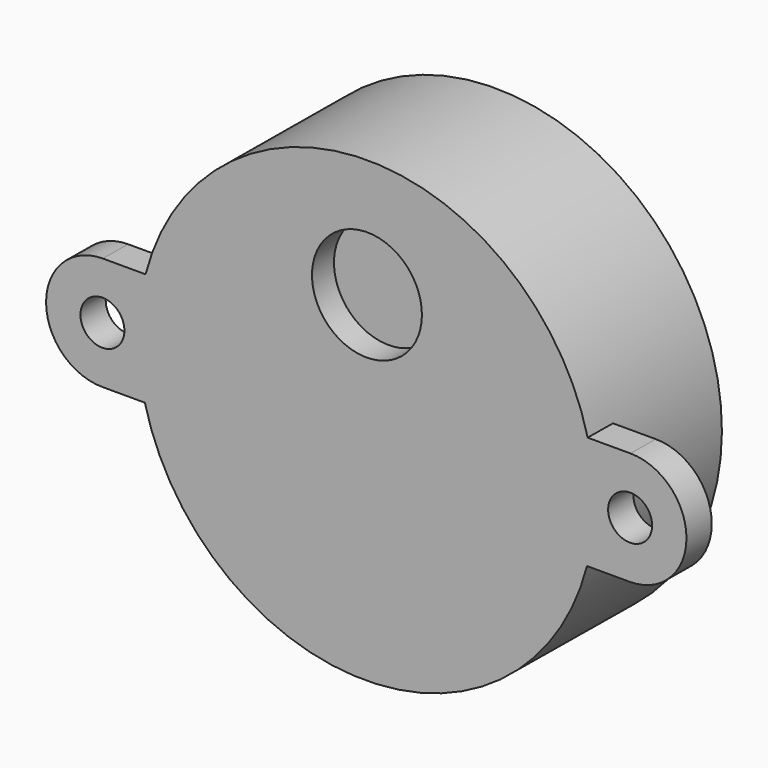
from build123d import *

# Parameters (mm, degrees)
SKETCH002_R        = 16.6
PAD001_DEPTH       = 14.2
SKETCH003_R        = 16.6
SKETCH003_R_2      = 13.25
POCKET001_DEPTH    = 2.6
SKETCH009_R        = 4
POCKET004_DEPTH    = 2
SKETCH005_R        = 1.6
PAD005_DEPTH       = 2.3
BODY001_ROLL_ANGLE = -0.43547


with BuildPart() as part:
    # Sketch002 → Pad001 (new body)
    with BuildSketch(Plane.XZ):
        Circle(SKETCH002_R)
    extrude(amount=PAD001_DEPTH)

    # Sketch003 → Pocket001 (cut)
    with BuildSketch(Plane.XZ):
        Circle(SKETCH003_R)
        Circle(SKETCH003_R_2, mode=Mode.SUBTRACT)
    extrude(amount=POCKET001_DEPTH, mode=Mode.SUBTRACT)

    # Sketch009 (on Face3 of Pocket001) → Pocket004 (cut)
    with BuildSketch(Plane.XZ.offset(14.2)):
        with Locations((0, 8)):
            Circle(SKETCH009_R)
    extrude(amount=-POCKET004_DEPTH, mode=Mode.SUBTRACT)

    # Sketch005 (on Face3 of Pocket001) → Pad005 (join)
    with BuildSketch(Plane.XZ.offset(14.2)):
        with BuildLine():
            ThreePointArc((19.2, -4.1), (23.300001, 0), (19.2, 4.1))
            Line((19.2, 4.1), (9.6, 4.1))
            Line((9.6, 4.1), (9.6, -4.1))
            Line((9.6, -4.1), (19.2, -4.1))
        make_face()
        with Locations((19.200001, 0)):
            Circle(SKETCH005_R, mode=Mode.SUBTRACT)
    pad005 = extrude(amount=-PAD005_DEPTH)

    # Mirrored: Pad005 across Sketch005 V_Axis
    add(pad005.mirror(Plane(origin=(0, -14.2, 0), x_dir=(0, -1, 0), z_dir=(1, 0, 0))))


with BuildPart() as part_1:
    # Body001 roll: moved
    add(part.part.rotate(Axis((0, 0, 0), (1, 0, 0)), BODY001_ROLL_ANGLE))


with BuildPart() as part_2:
    # Body001 placement: moved
    add(part_1.part.moved(Location((0, 0, 0))))


solid = part_2.part
